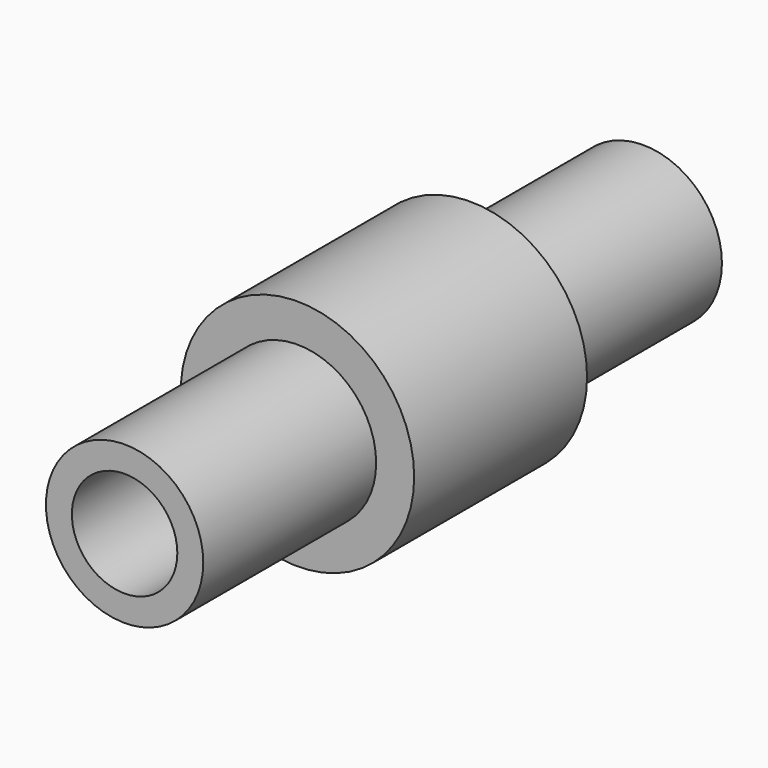
from build123d import *

# Parameters (mm, degrees)
F0_R     = 9.1
F0_R_2   = 6.1
F1_DEPTH = 25
F2_R     = 13.5
F2_R_2   = 9.1
F2_R_3   = 6.1
F3_DEPTH = 25
F4_R     = 9.1
F4_R_2   = 6.1
F5_DEPTH = 25
F6_R     = 6.1
F6_R_2   = 5
F7_DEPTH = 2


with BuildPart() as f1:
    # F0 (on Front) → F1 (new body)
    with BuildSketch(Plane.XZ):
        Circle(F0_R)
        Circle(F0_R_2, mode=Mode.SUBTRACT)
    extrude(amount=F1_DEPTH)

    # F2 (on face) → F3 (join)
    with BuildSketch(Plane.XZ.offset(25)):
        Circle(F2_R)
        Circle(F2_R_2, mode=Mode.SUBTRACT)
        Circle(F2_R_2)
        Circle(F2_R_3, mode=Mode.SUBTRACT)
    extrude(amount=F3_DEPTH)

    # F4 (on face) → F5 (join)
    with BuildSketch(Plane.XZ.offset(50)):
        Circle(F4_R)
        Circle(F4_R_2, mode=Mode.SUBTRACT)
    extrude(amount=F5_DEPTH)

    # F6 (on face) → F7 (join)
    with BuildSketch(Plane(origin=(0, 0, 0), x_dir=(-1, 0, 0), z_dir=(0, 1, 0))):
        Circle(F6_R)
        Circle(F6_R_2, mode=Mode.SUBTRACT)
    extrude(amount=-F7_DEPTH)


solid = f1.part
